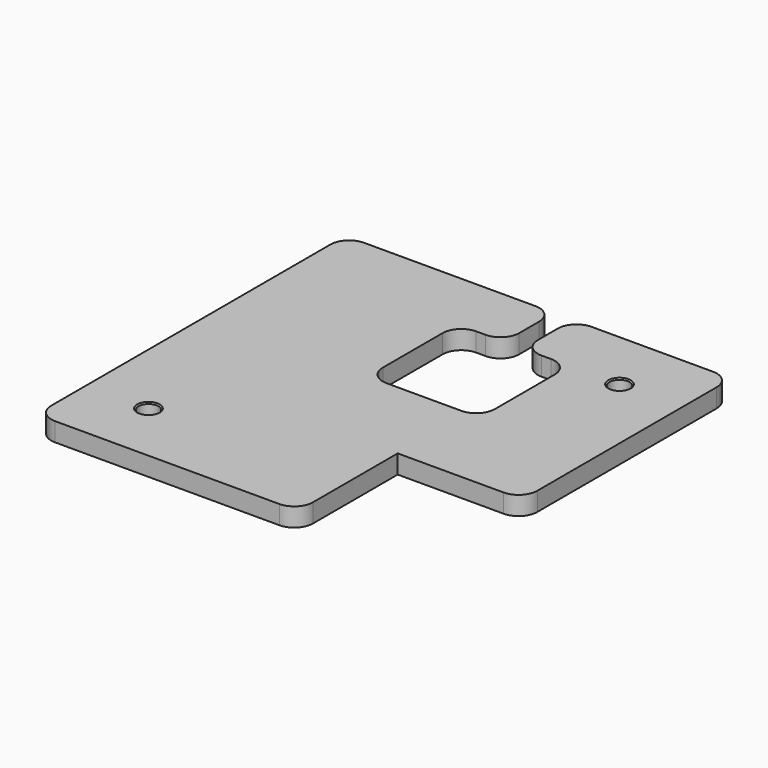
from build123d import *

# Parameters (mm, degrees)
SKETCH_R     = 1.6
PAD_DEPTH    = 3
FILLET_R     = 3
CHAMFER_SIZE = 0.2


with BuildPart() as part:
    # Sketch → Pad (new body)
    with BuildSketch(Plane.XY):
        Polygon((0, 0), (0, -20), (-42, -20), (-42, 42), (-8.5, 42), (-8.5, 32), (-16, 32), (-16, 14), (2, 14), (2, 32), (-5.5, 32), (-5.5, 42), (20, 42), (20, 0), align=None)
        with Locations((10, 32)):
            Circle(SKETCH_R, mode=Mode.SUBTRACT)
        with Locations((-32, -10)):
            Circle(SKETCH_R, mode=Mode.SUBTRACT)
    extrude(amount=PAD_DEPTH)

    # Fillet
    fillet_edges = [part.edges().sort_by_distance(p)[0] for p in [
        (-42, -20, 1.5),
        (20, 0, 1.5),
        (0, -20, 1.5),
        (-42, 42, 1.5),
        (20, 42, 1.5),
        (-5.5, 32, 1.5),
        (-5.5, 42, 1.5),
        (2, 32, 1.5),
        (-8.5, 32, 1.5),
        (-16, 32, 1.5),
        (-16, 14, 1.5),
        (2, 14, 1.5),
        (-8.5, 42, 1.5),
    ]]
    fillet(fillet_edges, radius=FILLET_R)

    # Chamfer
    chamfer_edges = [part.edges().sort_by_distance(p)[0] for p in [
        (-33.6, -10, 0),
        (8.4, 32, 0),
        (-33.6, -10, 3),
        (8.4, 32, 3),
    ]]
    chamfer(chamfer_edges, length=CHAMFER_SIZE)


solid = part.part
